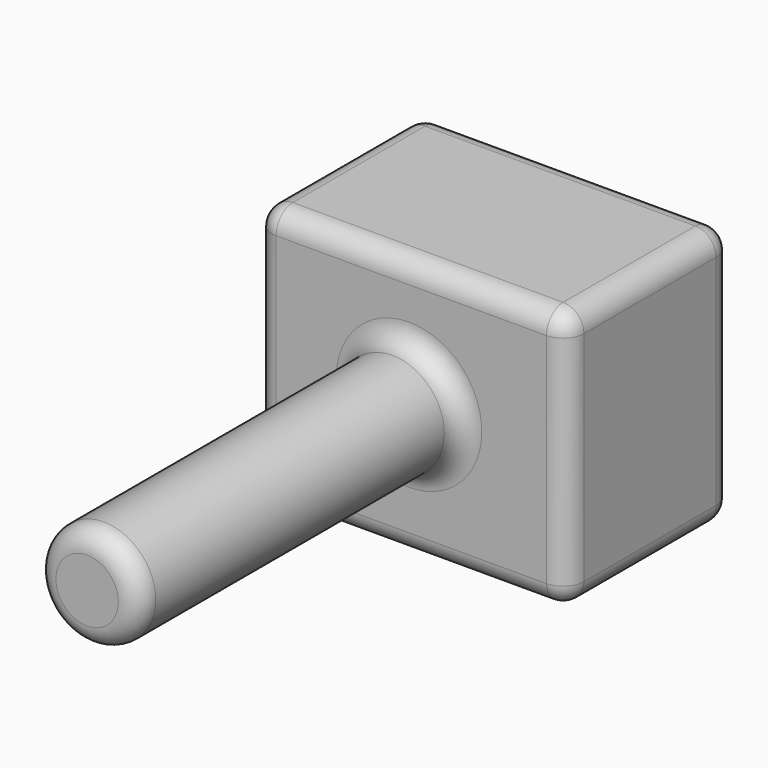
from build123d import *

# Parameters (mm, degrees)
F0_W     = 76.2
F0_H     = 63.5
F1_DEPTH = 50.546
F2_R     = 12.7
F3_DEPTH = 98.298
F4_R     = 5.08
F5_R     = 5.08
F6_R     = 5.08


with BuildPart() as f1:
    # F0 (on Front) → F1 (new body)
    with BuildSketch(Plane.XZ):
        with Locations((-38.1, 31.75)):
            Rectangle(F0_W, F0_H)
    extrude(amount=F1_DEPTH)

    # F2 (on face) → F3 (join)
    with BuildSketch(Plane.XZ.offset(50.546)):
        with Locations((-38.666781, 32.61992)):
            Circle(F2_R)
    extrude(amount=F3_DEPTH)

    # F4
    f4_edges = [f1.edges().sort_by_distance(p)[0] for p in [
        (0, -25.273, 0),
        (0, -25.273, 63.5),
        (-76.2, -25.273, 63.5),
        (-76.2, -25.273, 0),
    ]]
    fillet(f4_edges, radius=F4_R)

    # F5
    f5_edges = [f1.edges().sort_by_distance(p)[0] for p in [
        (-38.1, -50.546, 0),
        (-38.1, 0, 0),
    ]]
    fillet(f5_edges, radius=F5_R)

    # F6
    f6_edges = [f1.edges().sort_by_distance(p)[0] for p in [
        (-25.966781, -99.695, 32.61992),
        (-51.366781, -50.546, 32.61992),
        (-51.366781, -148.844, 32.61992),
    ]]
    fillet(f6_edges, radius=F6_R)


solid = f1.part
